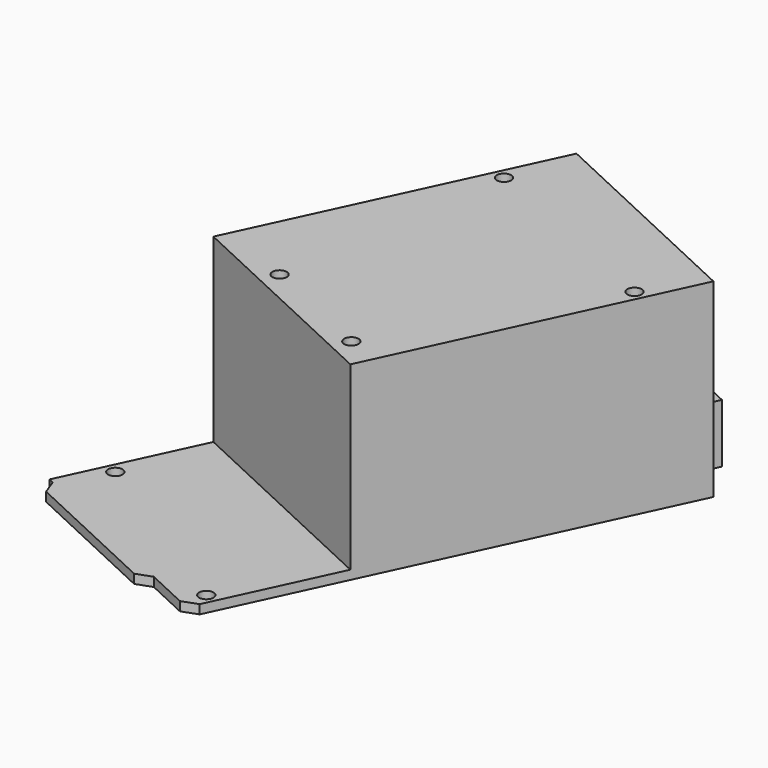
from build123d import *

# Parameters (mm, degrees)
PAD017_DEPTH            = 2
SKETCH057_W             = 70
SKETCH057_H             = 53.34
PAD018_DEPTH            = 40
SKETCH058_W             = 17
SKETCH058_H             = 11.43
SKETCH058_W_2           = 13
SKETCH058_H_2           = 8.89
PAD019_DEPTH            = 11
SKETCH059_R             = 1.5875
POCKET_DEPTH            = 50
BODY012_PLACEMENT_ANGLE = 115


with BuildPart() as part:
    # Sketch056 → Pad017 (new body)
    with BuildSketch(Plane.XY):
        Polygon((-101.6, 53.34), (-2.54, 53.34), (0, 50.8), (0, 40.64), (2.54, 38.1), (2.54, 3.81), (0, 1.27), (0, 0), (-101.6, 0), (-101.6, 3.175), (-103.505, 3.175), (-103.505, 12.065), (-101.6, 12.065), (-101.6, 32.385), (-107.95, 32.385), (-107.95, 43.815), (-101.6, 43.815), align=None)
    extrude(amount=PAD017_DEPTH)

    # Sketch057 (on Face19 of Pad017) → Pad018 (join)
    with BuildSketch(Plane.XY.offset(2)):
        with Locations((-66.6, 26.67)):
            Rectangle(SKETCH057_W, SKETCH057_H)
    extrude(amount=PAD018_DEPTH)

    # Sketch058 (on Face24 of Pad018) → Pad019 (join)
    with BuildSketch(Plane.XY.offset(2)):
        with Locations((-99.45, 38.1)):
            Rectangle(SKETCH058_W, SKETCH058_H)
        with Locations((-97.005, 7.62)):
            Rectangle(SKETCH058_W_2, SKETCH058_H_2)
    extrude(amount=PAD019_DEPTH)

    # Sketch059 (on Face4 of Pad019) → Pocket (cut)
    with BuildSketch(Plane(origin=(0, 0, 0), x_dir=(1, 0, 0), z_dir=(0, 0, -1))):
        with Locations((-86.36, -2.54)):
            Circle(SKETCH059_R)
        with Locations((-11.43, -2.54)):
            Circle(SKETCH059_R)
        with Locations((-87.63, -50.8)):
            Circle(SKETCH059_R)
        with Locations((-5.08, -50.8)):
            Circle(SKETCH059_R)
        with Locations((-35.56, -17.78)):
            Circle(SKETCH059_R)
        with Locations((-35.56, -45.72)):
            Circle(SKETCH059_R)
    extrude(amount=-POCKET_DEPTH, mode=Mode.SUBTRACT)


with BuildPart() as part_1:
    # Body012 placement: moved
    add(part.part.moved(Location((2.7561582663, -32.0302512871, 15.15))).rotate(Axis((2.7561582663, -32.0302512871, 15.15), (0, 0, -1)), BODY012_PLACEMENT_ANGLE))


solid = part_1.part
